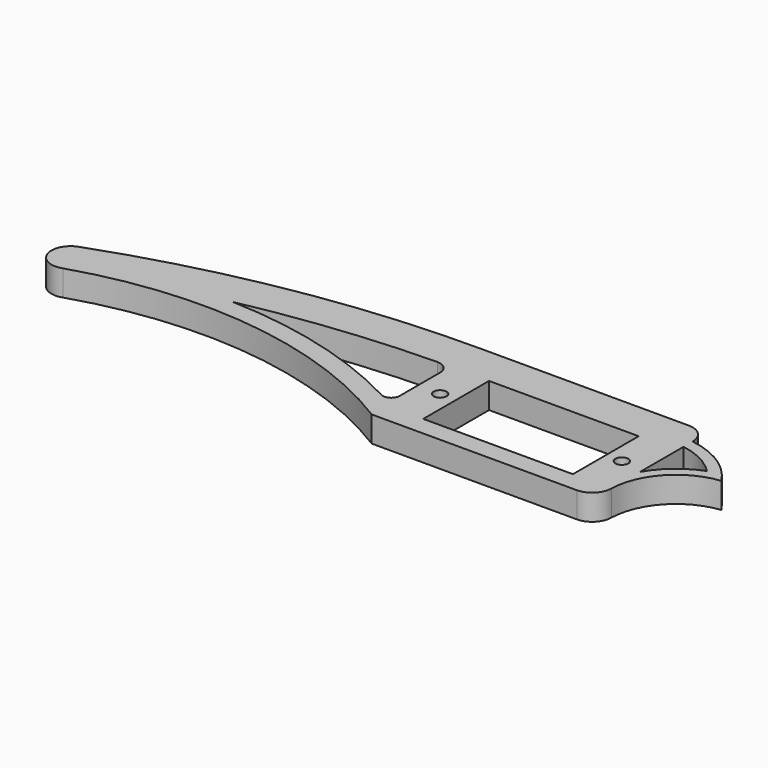
from build123d import *

# Parameters (mm, degrees)
SKETCH_R  = 1
SKETCH_W  = 23.3
SKETCH_H  = 12.8
PAD_DEPTH = 4


with BuildPart() as part:
    # Sketch → Pad (new body)
    with BuildSketch(Plane.XY):
        with BuildLine():
            Line((-17.65, 12.4), (14.65, 12.4))
            ThreePointArc((17.65, 9.4), (16.77132, 11.52132), (14.65, 12.4))
            ThreePointArc((26.84, 3.51), (22.883245, 7.450836), (17.65, 9.4))
            ThreePointArc((26.84, 3.51), (20.406481, 0.259943), (17.65, -6.4))
            ThreePointArc((14.65, -9.4), (16.77132, -8.52132), (17.65, -6.4))
            Line((14.65, -9.4), (-17.27, -9.4))
            ThreePointArc((-17.27, -9.4), (-43.226691, -0.259051), (-70.626477, -2.82))
            ThreePointArc((-72.67, 2.821276), (-74.470639, -1.021762), (-70.626477, -2.82))
            ThreePointArc((-17.65, 12.4), (-45.579054, 10.017677), (-72.67, 2.821276))
        make_face()
        with Locations((-14.15, 0)):
            Circle(SKETCH_R, mode=Mode.SUBTRACT)
        with Locations((14.15, 0)):
            Circle(SKETCH_R, mode=Mode.SUBTRACT)
        Rectangle(SKETCH_W, SKETCH_H, mode=Mode.SUBTRACT)
        with BuildLine():
            Line((17.65, 7.636176), (17.65, -0.84))
            ThreePointArc((23.88, 4.42), (20.301686, 2.338754), (17.65, -0.84))
            ThreePointArc((23.88, 4.42), (21.017458, 6.51712), (17.65, 7.636176))
        make_face(mode=Mode.SUBTRACT)
        with BuildLine():
            Line((-17.66615, -3.466269), (-17.66615, 4.388555))
            ThreePointArc((-17.66615, 4.388555), (-18.261027, 5.807615), (-19.69, 6.378267))
            ThreePointArc((-19.69, 6.378267), (-34.408413, 5.451456), (-48.98, 3.18))
            ThreePointArc((-19.59, -4.623545), (-33.83794, 0.961961), (-48.98, 3.18))
            ThreePointArc((-19.59, -4.623545), (-18.300889, -4.58882), (-17.66615, -3.466269))
        make_face(mode=Mode.SUBTRACT)
    extrude(amount=PAD_DEPTH)


solid = part.part
